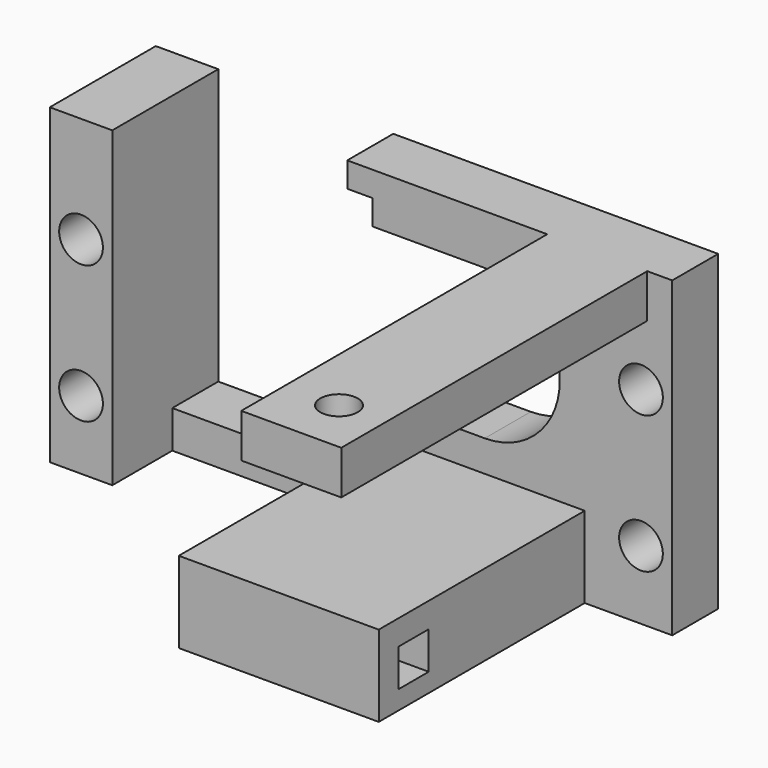
from build123d import *

# Parameters (mm, degrees)
CYLINDER043_R           = 1.75
CYLINDER043_DEPTH       = 44
CYLINDER043_ROLL_ANGLE  = 90
CYLINDER045_R           = 6
CYLINDER045_DEPTH       = 34
CYLINDER045_ROLL_ANGLE  = 90
BOX078_W                = 17
BOX078_H                = 17.6
BOX078_DEPTH            = 12
CYLINDER046_R           = 1.75
CYLINDER046_DEPTH       = 44
CYLINDER046_ROLL_ANGLE  = 90
BOX082_W                = 2
BOX082_H                = 24.6
BOX082_DEPTH            = 16
CYLINDER040_R           = 1.75
CYLINDER040_DEPTH       = 44
CYLINDER040_ROLL_ANGLE  = 90
CYLINDER047_R           = 1.75
CYLINDER047_DEPTH       = 21
CYLINDER047_PITCH_ANGLE = 90
CYLINDER052_R           = 1.5
CYLINDER052_DEPTH       = 42
BOX088_W                = 42
BOX088_H                = 3
BOX088_DEPTH            = 3
CYLINDER044_R           = 1.75
CYLINDER044_DEPTH       = 44
CYLINDER044_ROLL_ANGLE  = 90
BOX075_W                = 26
BOX075_H                = 4.6
BOX075_DEPTH            = 25
BOX083_W                = 14
BOX083_H                = 4.6
BOX083_DEPTH            = 3
BOX086_W                = 8
BOX086_H                = 32.6
BOX086_DEPTH            = 3.5
BOX087_W                = 16
BOX087_H                = 20.6
BOX087_DEPTH            = 6.5
BOX079_W                = 5
BOX079_H                = 10.6
BOX079_DEPTH            = 25


with BuildPart() as cylinder_for_hole_9_groovemount_l004:
    # Cylinder043 → Cylinder043 (new body)
    with BuildSketch(Plane.XY):
        Circle(CYLINDER043_R)
    extrude(amount=CYLINDER043_DEPTH)


with BuildPart() as cylinder_for_hole_9_groovemount_l004_1:
    # Cylinder043 roll: moved
    add(cylinder_for_hole_9_groovemount_l004.part.rotate(Axis((0, 0, 0), (1, 0, 0)), CYLINDER043_ROLL_ANGLE))


with BuildPart() as cylinder_for_hole_9_groovemount_l004_2:
    # Cylinder043 placement: moved
    add(cylinder_for_hole_9_groovemount_l004_1.part.moved(Location((-20, 6, -2.5))))


with BuildPart() as jhead_hole001:
    # Cylinder045 → Cylinder045 (new body)
    with BuildSketch(Plane.XY):
        Circle(CYLINDER045_R)
    extrude(amount=CYLINDER045_DEPTH)


with BuildPart() as jhead_hole001_1:
    # Cylinder045 roll: moved
    add(jhead_hole001.part.rotate(Axis((0, 0, 0), (1, 0, 0)), CYLINDER045_ROLL_ANGLE))


with BuildPart() as jhead_hole001_2:
    # Cylinder045 placement: moved
    add(jhead_hole001_1.part.moved(Location((7.5, 0, -4))))


with BuildPart() as jhead_retention_plate_slide_in_hole001:
    # Box078 → Box078 (new body)
    with BuildSketch(Plane(origin=(-9.5, -14.6, -10), x_dir=(1, 0, 0), z_dir=(0, 0, 1))):
        with Locations((8.5, 8.8)):
            Rectangle(BOX078_W, BOX078_H)
    extrude(amount=BOX078_DEPTH)


with BuildPart() as cylinder_for_hole_4_motherboard004:
    # Cylinder046 → Cylinder046 (new body)
    with BuildSketch(Plane.XY):
        Circle(CYLINDER046_R)
    extrude(amount=CYLINDER046_DEPTH)


with BuildPart() as cylinder_for_hole_4_motherboard004_1:
    # Cylinder046 roll: moved
    add(cylinder_for_hole_4_motherboard004.part.rotate(Axis((0, 0, 0), (1, 0, 0)), CYLINDER046_ROLL_ANGLE))


with BuildPart() as cylinder_for_hole_4_motherboard004_2:
    # Cylinder046 placement: moved
    add(cylinder_for_hole_4_motherboard004_1.part.moved(Location((20, 6, -13.5))))


with BuildPart() as retention_hexagon_head_slide_in_hole:
    # Box082 → Box082 (new body)
    with BuildSketch(Plane(origin=(-3.5, -14.6, -12), x_dir=(1, 0, 0), z_dir=(0, 0, 1))):
        with Locations((1, 12.3)):
            Rectangle(BOX082_W, BOX082_H)
    extrude(amount=BOX082_DEPTH)


with BuildPart() as cylinder_for_hole_3_motherboard003:
    # Cylinder040 → Cylinder040 (new body)
    with BuildSketch(Plane.XY):
        Circle(CYLINDER040_R)
    extrude(amount=CYLINDER040_DEPTH)


with BuildPart() as cylinder_for_hole_3_motherboard003_1:
    # Cylinder040 roll: moved
    add(cylinder_for_hole_3_motherboard003.part.rotate(Axis((0, 0, 0), (1, 0, 0)), CYLINDER040_ROLL_ANGLE))


with BuildPart() as cylinder_for_hole_3_motherboard003_2:
    # Cylinder040 placement: moved
    add(cylinder_for_hole_3_motherboard003_1.part.moved(Location((-20, 6, -13.5))))


with BuildPart() as f_30x30_fan_hole:
    # Cylinder047 → Cylinder047 (new body)
    with BuildSketch(Plane.XY):
        Circle(CYLINDER047_R)
    extrude(amount=CYLINDER047_DEPTH)


with BuildPart() as f_30x30_fan_hole_1:
    # Cylinder047 pitch: moved
    add(f_30x30_fan_hole.part.rotate(Axis((0, 0, 0), (0, 1, 0)), CYLINDER047_PITCH_ANGLE))


with BuildPart() as f_30x30_fan_hole_2:
    # Cylinder047 placement: moved
    add(f_30x30_fan_hole_1.part.moved(Location((-24, -10, 11))))


with BuildPart() as extruder_screw_r:
    # Cylinder052 → Cylinder052 (new body)
    with BuildSketch(Plane(origin=(16.8, -35.8, -8), x_dir=(1, 0, 0), z_dir=(0, 0, 1))):
        Circle(CYLINDER052_R)
    extrude(amount=CYLINDER052_DEPTH)


with BuildPart() as fastener_hole:
    # Box088 → Box088 (new body)
    with BuildSketch(Plane(origin=(-21.5, -28.2, -17.5), x_dir=(1, 0, 0), z_dir=(0, 0, 1))):
        with Locations((21, 1.5)):
            Rectangle(BOX088_W, BOX088_H)
    extrude(amount=BOX088_DEPTH)


with BuildPart() as hexagon_retention_block_holes:
    # Cylinder044 → Cylinder044 (new body)
    with BuildSketch(Plane.XY):
        Circle(CYLINDER044_R)
    extrude(amount=CYLINDER044_DEPTH)


with BuildPart() as hexagon_retention_block_holes_1:
    # Cylinder044 roll: moved
    add(hexagon_retention_block_holes.part.rotate(Axis((0, 0, 0), (1, 0, 0)), CYLINDER044_ROLL_ANGLE))


with BuildPart() as hexagon_retention_block_holes_2:
    # Cylinder044 placement: moved
    add(hexagon_retention_block_holes_1.part.moved(Location((20, 6, -2.5))))

    # Fusion020: union cylinder for hole 9 - Groovemount L004, jhead hole001, jhead retention plate slide in hole001, cylinder for hole 4 - Motherboard004, retention hexagon head slide in hole, cylinder for hole 3 - Motherboard003, 30x30 fan hole, extruder screw  R, fastener hole
    add(cylinder_for_hole_9_groovemount_l004_2.part)
    add(jhead_hole001_2.part)
    add(jhead_retention_plate_slide_in_hole001.part)
    add(cylinder_for_hole_4_motherboard004_2.part)
    add(retention_hexagon_head_slide_in_hole.part)
    add(cylinder_for_hole_3_motherboard003_2.part)
    add(f_30x30_fan_hole_2.part)
    add(extruder_screw_r.part)
    add(fastener_hole.part)


with BuildPart() as jhead_retention_plate_body001:
    # Box075 → Box075 (new body)
    with BuildSketch(Plane(origin=(-3.5, -9.6, -19), x_dir=(1, 0, 0), z_dir=(0, 0, 1))):
        with Locations((13, 2.3)):
            Rectangle(BOX075_W, BOX075_H)
    extrude(amount=BOX075_DEPTH)


with BuildPart() as fan_bracket_retention_plate_joint:
    # Box083 → Box083 (new body)
    with BuildSketch(Plane(origin=(-17.5, -9.6, -19), x_dir=(1, 0, 0), z_dir=(0, 0, 1))):
        with Locations((7, 2.3)):
            Rectangle(BOX083_W, BOX083_H)
    extrude(amount=BOX083_DEPTH)


with BuildPart() as motor_bracket_base_r:
    # Box086 → Box086 (new body)
    with BuildSketch(Plane(origin=(12.5, -40.2, 2.5), x_dir=(1, 0, 0), z_dir=(0, 0, 1))):
        with Locations((4, 16.3)):
            Rectangle(BOX086_W, BOX086_H)
    extrude(amount=BOX086_DEPTH)


with BuildPart() as motor_support:
    # Box087 → Box087 (new body)
    with BuildSketch(Plane(origin=(-0.5, -30.2, -19), x_dir=(1, 0, 0), z_dir=(0, 0, 1))):
        with Locations((8, 10.3)):
            Rectangle(BOX087_W, BOX087_H)
    extrude(amount=BOX087_DEPTH)


with BuildPart() as hexagon_retention_block_with_holes:
    # Box079 → Box079 (new body)
    with BuildSketch(Plane(origin=(-22.5, -15.6, -19), x_dir=(1, 0, 0), z_dir=(0, 0, 1))):
        with Locations((2.5, 5.3)):
            Rectangle(BOX079_W, BOX079_H)
    extrude(amount=BOX079_DEPTH)

    # Fusion021: union jhead retention plate body001, fan bracket retention plate joint, motor bracket base R, motor support
    add(jhead_retention_plate_body001.part)
    add(fan_bracket_retention_plate_joint.part)
    add(motor_bracket_base_r.part)
    add(motor_support.part)

    # Cut012: cut hexagon retention block holes
    add(hexagon_retention_block_holes_2.part, mode=Mode.SUBTRACT)


solid = hexagon_retention_block_with_holes.part
